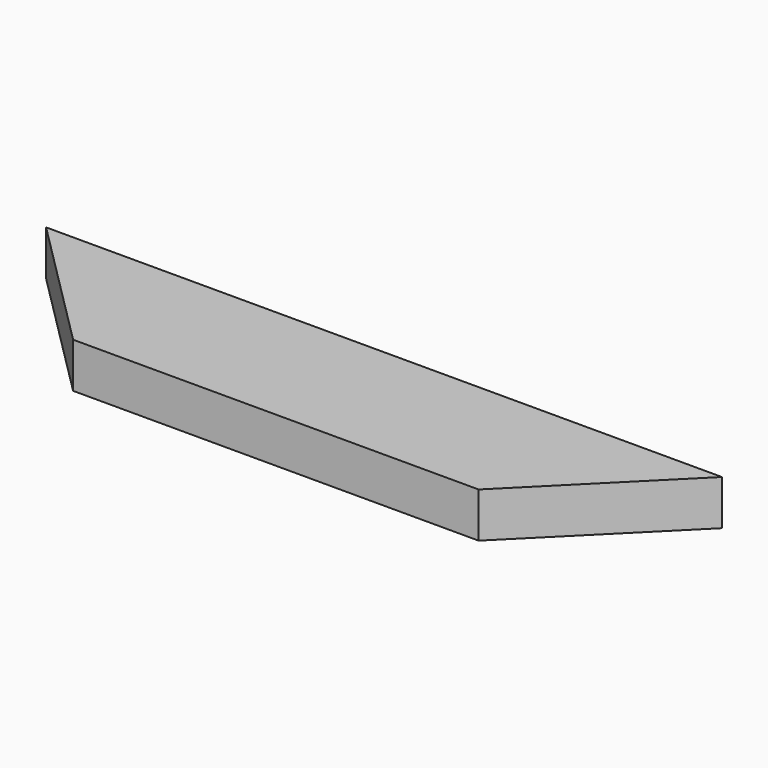
from build123d import *

# Parameters (mm, degrees)
F1_DEPTH = 12.7


with BuildPart() as f1:
    # F0 (on Top) → F1 (new body)
    with BuildSketch(Plane.XY):
        Polygon((57.15, -19.05), (95.25, 19.05), (-95.25, 19.05), (-57.15, -19.05), align=None)
    extrude(amount=-F1_DEPTH)


solid = f1.part
